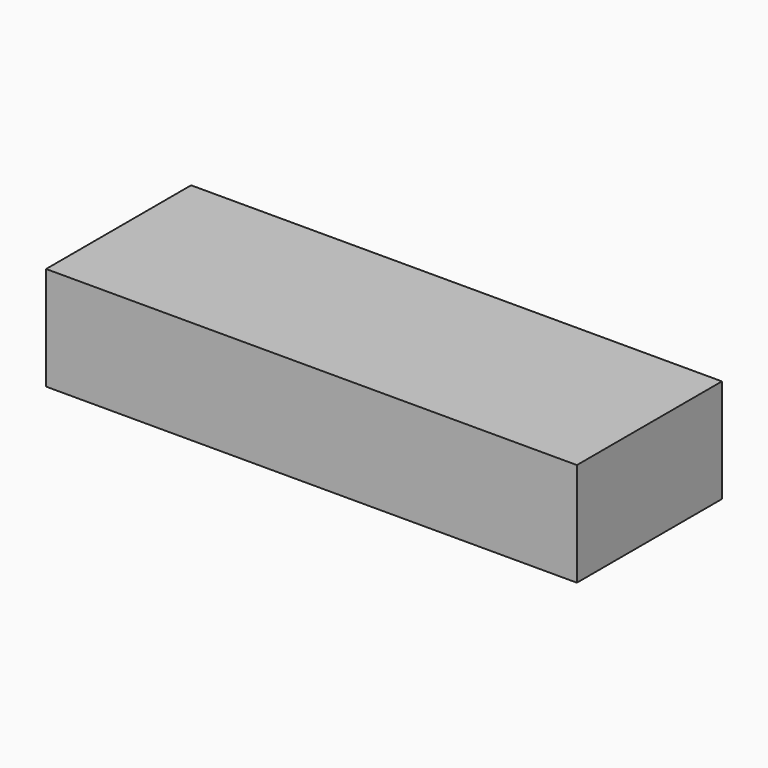
from build123d import *

# Parameters (mm, degrees)
F0_W     = 60.325
F0_H     = 15.875
F1_DEPTH = 25.4


with BuildPart() as f1:
    # F0 (on Top) → F1 (new body)
    with BuildSketch(Plane.XY):
        with Locations((6.301525, 14.503206)):
            Rectangle(F0_W, F0_H)
        Polygon((71.389025, 51.015706), (-58.785975, 51.015706), (-58.785975, 6.565706), (-23.860975, 6.565706), (-23.860975, 22.440706), (36.464025, 22.440706), (36.464025, 6.565706), (71.389025, 6.565706), align=None)
    extrude(amount=F1_DEPTH)


solid = f1.part
